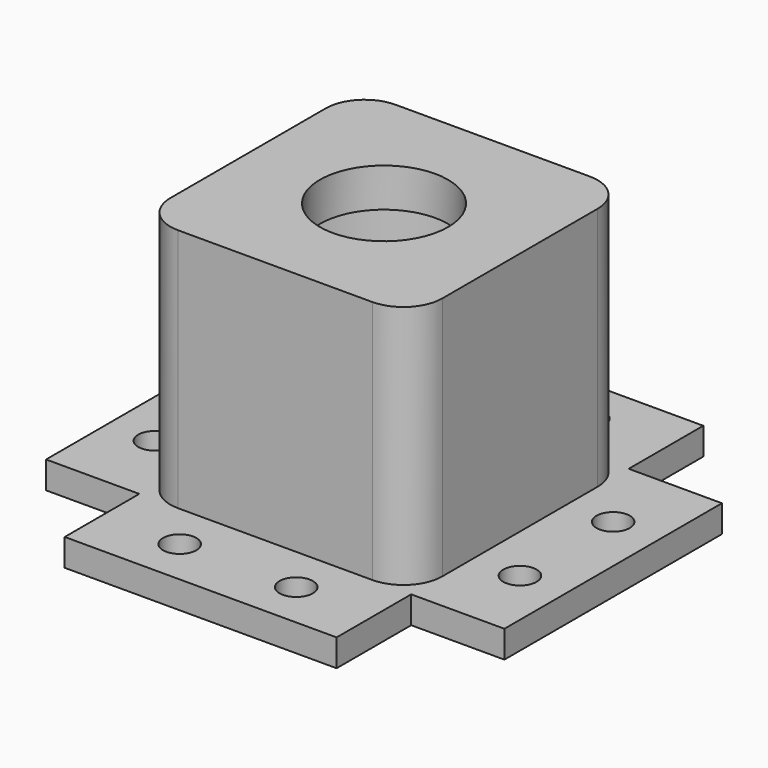
from build123d import *

# Parameters (mm, degrees)
F0_W     = 12
F0_H     = 35
F0_R     = 2.14341
F0_W_2   = 35
F0_H_2   = 12
F0_R_2   = 8.25
F1_DEPTH = 3.5
F2_DEPTH = 35
F3_R     = 5
F4_R     = 14
F5_DEPTH = 30


with BuildPart() as f1:
    # F0 (on Top) → F1 (new body)
    with BuildSketch(Plane.XY):
        with Locations((-23.5, 0)):
            Rectangle(F0_W, F0_H)
        with Locations((-23.5, -7.5)):
            Circle(F0_R, mode=Mode.SUBTRACT)
        with Locations((-23.5, 7.5)):
            Circle(F0_R, mode=Mode.SUBTRACT)
        with Locations((0, 23.5)):
            Rectangle(F0_W_2, F0_H_2)
        with Locations((-7.5, 23.5)):
            Circle(F0_R, mode=Mode.SUBTRACT)
        with Locations((7.5, 23.5)):
            Circle(F0_R, mode=Mode.SUBTRACT)
        with Locations((23.5, 0)):
            Rectangle(F0_W, F0_H)
        with Locations((23.5, -7.5)):
            Circle(F0_R, mode=Mode.SUBTRACT)
        with Locations((23.5, 7.5)):
            Circle(F0_R, mode=Mode.SUBTRACT)
        with Locations((0, -23.5)):
            Rectangle(F0_W_2, F0_H_2)
        with Locations((-7.5, -23.5)):
            Circle(F0_R, mode=Mode.SUBTRACT)
        with Locations((7.5, -23.5)):
            Circle(F0_R, mode=Mode.SUBTRACT)
        Rectangle(F0_W_2, F0_H)
        Circle(F0_R_2, mode=Mode.SUBTRACT)
    extrude(amount=F1_DEPTH)


with BuildPart() as f2:
    # F0 (on Top) → F2 (new body)
    with BuildSketch(Plane.XY):
        Rectangle(F0_W_2, F0_H)
        Circle(F0_R_2, mode=Mode.SUBTRACT)
    extrude(amount=F2_DEPTH)

    # F3
    f3_edges = [f2.edges().sort_by_distance(p)[0] for p in [
        (-17.5, -17.5, 17.5),
        (17.5, -17.5, 17.5),
        (17.5, 17.5, 17.5),
        (-17.5, 17.5, 17.5),
    ]]
    fillet(f3_edges, radius=F3_R)


with BuildPart() as f5_tool:
    # F4 (on face) → F5 (new body)
    with BuildSketch(Plane.XY):
        with Locations((0.496793, 0)):
            Circle(F4_R)
    extrude(amount=F5_DEPTH)


with BuildPart() as f1_1:
    add(f1.part)

    # F5: cut by f5_tool
    add(f5_tool.part, mode=Mode.SUBTRACT)


with BuildPart() as f2_1:
    add(f2.part)

    # F5: cut by f5_tool
    add(f5_tool.part, mode=Mode.SUBTRACT)


solid = Compound([f1_1.part, f2_1.part])
